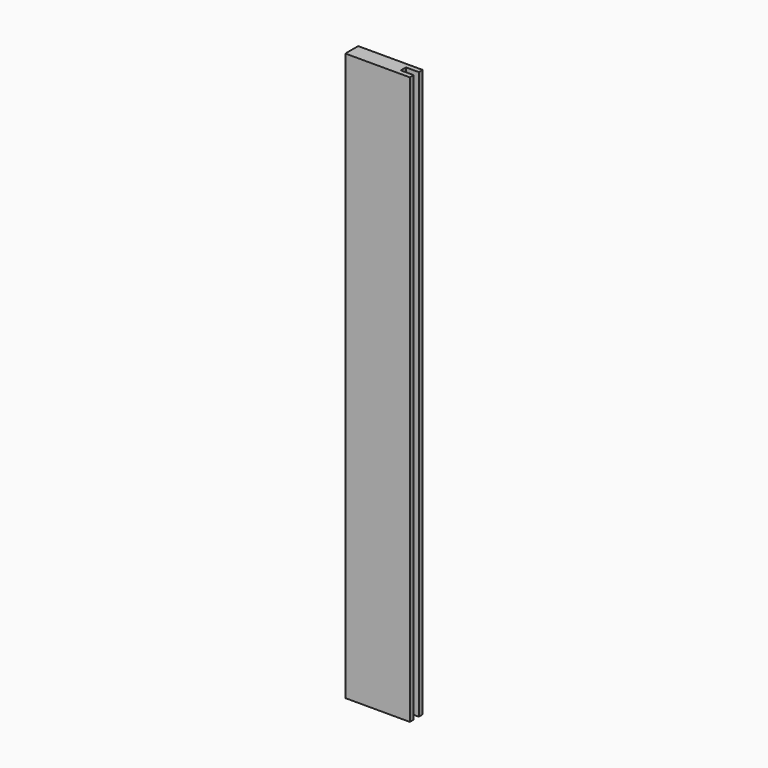
from build123d import *

# Parameters (mm, degrees)
F0_W     = 63.5
F0_H     = 19.05
F1_DEPTH = 558.8
F2_SIZE  = 3.175
F3_W     = 12.7
F3_H     = 6.35
F4_DEPTH = 558.801


with BuildPart() as f1:
    # F0 (on Top) → F1 (new body)
    with BuildSketch(Plane.XY):
        with Locations((31.75, 9.525)):
            Rectangle(F0_W, F0_H)
    extrude(amount=F1_DEPTH)

    # F2
    f2_edges = [f1.edges().sort_by_distance(p)[0] for p in [
        (0, 19.05, 279.4),
        (63.5, 19.05, 279.4),
        (31.75, 19.05, 0),
        (31.75, 19.05, 558.8),
    ]]
    chamfer(f2_edges, length=F2_SIZE)

    # F3 (on face) → F4 (cut, through all)
    with BuildSketch(Plane(origin=(0, 0, 0), x_dir=(1, 0, 0), z_dir=(0, 0, -1))):
        with Locations((57.15, -7.9375)):
            Rectangle(F3_W, F3_H)
    extrude(amount=-F4_DEPTH, mode=Mode.SUBTRACT)


solid = f1.part
